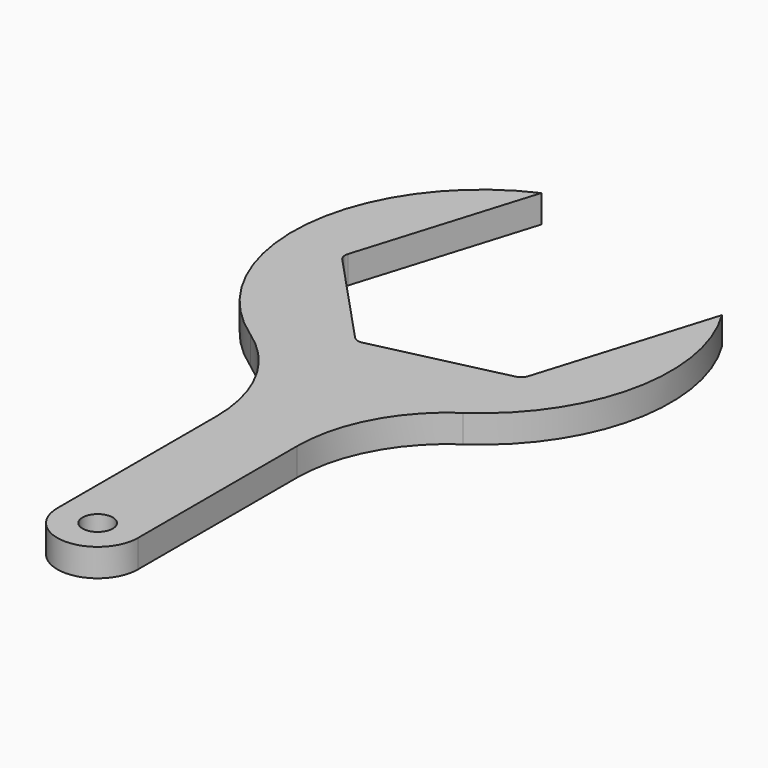
from build123d import *

# Parameters (mm, degrees)
F0_R     = 3
F1_DEPTH = 5.5


with BuildPart() as f1:
    # F0 (on Top) → F1 (new body)
    with BuildSketch(Plane.XY):
        with BuildLine():
            ThreePointArc((19.649253, -35.774603), (35.209077, -12.623239), (30.478464, 14.867034))
            Line((30.478464, 14.867034), (19.867698, -19.839218))
            ThreePointArc((19.867698, -19.839218), (19.319085, -20.717182), (18.40499, -21.203215))
            Line((18.40499, -21.203215), (-7.247418, -27.12554))
            ThreePointArc((-7.247418, -27.12554), (-8.282064, -27.08941), (-9.160028, -26.540797))
            Line((-9.160028, -26.540797), (-27.115116, -7.286322))
            ThreePointArc((-27.115116, -7.286322), (-27.601149, -6.372227), (-27.565018, -5.337582))
            Line((-27.565018, -5.337582), (-16.954252, 29.36867))
            ThreePointArc((-16.954252, 29.36867), (-38.823144, -1.55905), (-22.57297, -35.774603))
            ThreePointArc((-22.57297, -35.774603), (-12.941426, -46.545278), (-9.461859, -60.569067))
            Line((-9.461859, -60.569067), (-9.461859, -100))
            ThreePointArc((-9.461859, -100), (-1.461859, -108), (6.538141, -100))
            Line((6.538141, -100), (6.538141, -60.569067))
            ThreePointArc((6.538141, -60.569067), (10.017709, -46.545278), (19.649253, -35.774603))
        make_face()
        with Locations((-1.461859, -100)):
            Circle(F0_R, mode=Mode.SUBTRACT)
    extrude(amount=F1_DEPTH)


solid = f1.part
